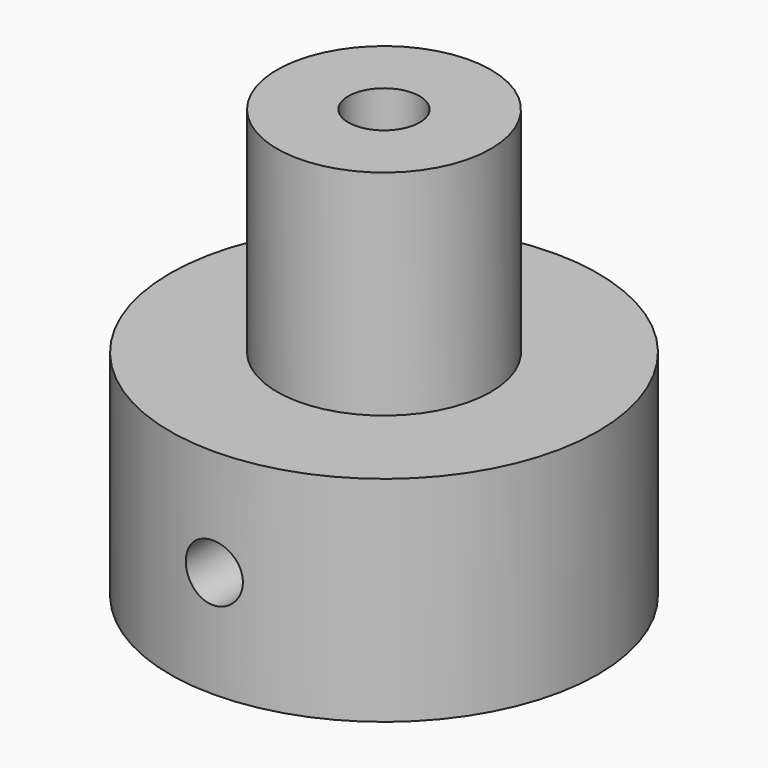
from build123d import *

# Parameters (mm, degrees)
F0_R     = 9.525
F1_DEPTH = 9.525
F2_R     = 4.7625
F3_DEPTH = 9.525
F6_R     = 1.27
F7_DEPTH = 9.525
F4_R     = 1.5875
F8_DEPTH = 19.051


with BuildPart() as f1:
    # F0 (on Top) → F1 (new body)
    with BuildSketch(Plane.XY):
        Circle(F0_R)
    extrude(amount=F1_DEPTH)

    # F2 (on face) → F3 (join)
    with BuildSketch(Plane.XY.offset(9.525)):
        Circle(F2_R)
    extrude(amount=F3_DEPTH)

    # F6 (on offset) → F7 (cut)
    with BuildSketch(Plane.XZ.offset(9.525)):
        with Locations((0, 4.7625)):
            Circle(F6_R)
    extrude(amount=-F7_DEPTH, mode=Mode.SUBTRACT)

    # F4 (on face) → F8 (cut, through all)
    with BuildSketch(Plane.XY.offset(19.05)):
        Circle(F4_R)
    extrude(amount=-F8_DEPTH, mode=Mode.SUBTRACT)


solid = f1.part
